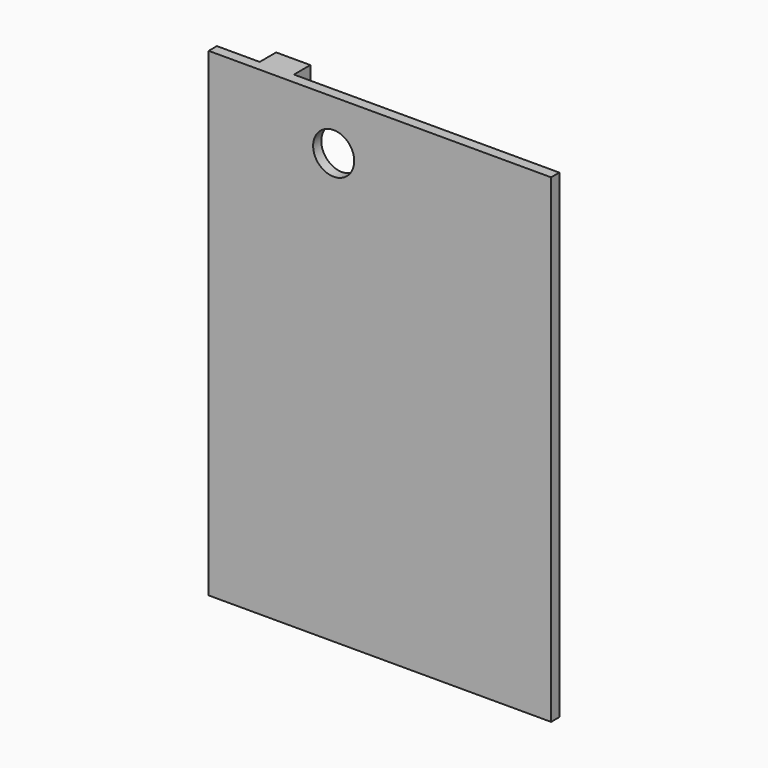
from build123d import *

# Parameters (mm, degrees)
F0_W     = 26
F0_H     = 26
F1_DEPTH = 1.5
F2_W     = 5
F2_H     = 26
F3_DEPTH = 3
F4_R     = 3
F5_DEPTH = 25
F6_DEPTH = 24
F7_W     = 50
F7_H     = 1.5
F8_DEPTH = 44


with BuildPart() as f1:
    # F0 (on Front) → F1 (new body)
    with BuildSketch(Plane.XZ):
        Rectangle(F0_W, F0_H)
    extrude(amount=-F1_DEPTH)

    # F2 (on face) → F3 (join)
    with BuildSketch(Plane(origin=(0, 1.5, 0), x_dir=(-1, 0, 0), z_dir=(0, 1, 0))):
        with Locations((4.25, 0)):
            Rectangle(F2_W, F2_H)
    extrude(amount=F3_DEPTH)

    # F4 (on face) → F5 (cut)
    with BuildSketch(Plane.XZ):
        with Locations((5.25, 5.75)):
            Circle(F4_R)
    extrude(amount=-F5_DEPTH, mode=Mode.SUBTRACT)

    # F6 (add): a face of the model
    f6_faces = [f1.faces().sort_by_distance(p)[0] for p in [
        (13, 0.75, 0),
    ]]
    extrude(f6_faces, amount=F6_DEPTH)

    # F7 (on face) → F8 (join)
    with BuildSketch(Plane(origin=(0, 0, -13), x_dir=(1, 0, 0), z_dir=(0, 0, -1))):
        with Locations((12, -0.75)):
            Rectangle(F7_W, F7_H)
    extrude(amount=F8_DEPTH)


solid = f1.part
